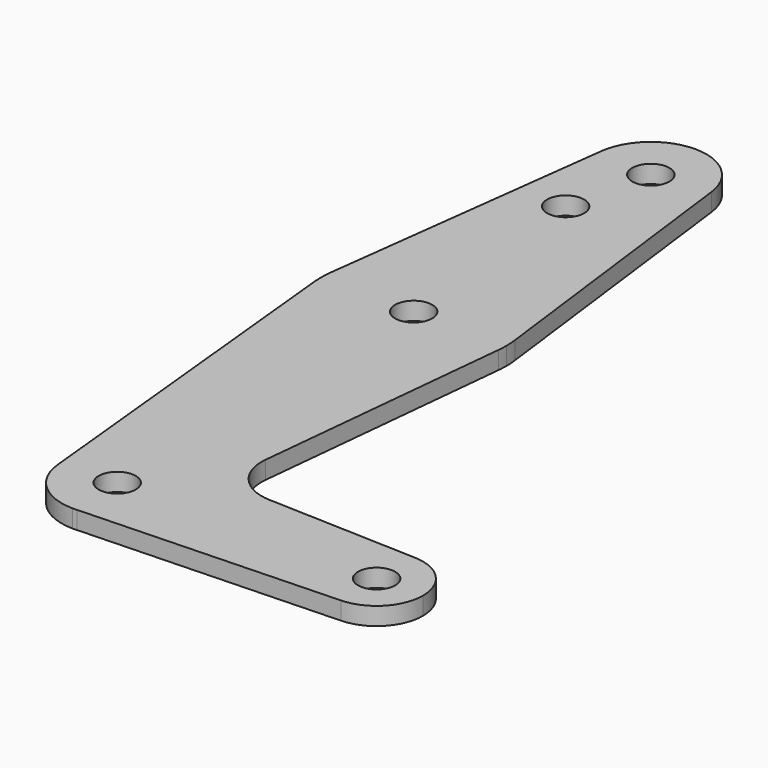
from build123d import *

# Parameters (mm, degrees)
F0_R     = 3.175
F1_DEPTH = 3.048


with BuildPart() as f1:
    # F0 (on Top) → F1 (new body)
    with BuildSketch(Plane.XY):
        with BuildLine():
            ThreePointArc((0.677344, -9.500886), (6.970557, -6.491299), (9.525, 0))
            ThreePointArc((9.525, 0), (-0.476848, 9.513056), (-9.477255, -0.9525))
            ThreePointArc((-9.477255, -0.9525), (-6.389564, -7.063929), (0, -9.525))
            Line((0, -9.525), (0.677344, -9.500886))
        make_face()
        Circle(F0_R, mode=Mode.SUBTRACT)
        with BuildLine():
            ThreePointArc((-9.477255, -0.9525), (-0.476848, 9.513056), (9.525, 0))
            ThreePointArc((9.525, 0), (6.970557, -6.491299), (0.677344, -9.500886))
            Line((0.677344, -9.500886), (44.732405, -7.932475))
            ThreePointArc((44.732405, -7.932475), (36.5125, 0.000539), (44.733482, 7.932436))
            Line((44.733482, 7.932436), (18.9676, 8.853234))
            ThreePointArc((18.9676, 8.853234), (13.2612, 11.571359), (11.341187, 17.593382))
            Line((11.341187, 17.593382), (15.795426, 61.9125))
            ThreePointArc((15.795426, 61.9125), (0, 47.625), (-15.795426, 61.9125))
            Line((-15.795426, 61.9125), (-9.477255, -0.9525))
        make_face()
        with BuildLine():
            ThreePointArc((0, -9.525), (0.338886, -9.51897), (0.677344, -9.500886))
            Line((0.677344, -9.500886), (0, -9.525))
        make_face()
        with BuildLine():
            ThreePointArc((-15.750488, 65.484375), (-15.873744, 63.699705), (-15.795426, 61.9125))
            ThreePointArc((-15.795426, 61.9125), (0, 47.625), (15.795426, 61.9125))
            ThreePointArc((15.795426, 61.9125), (15.855094, 62.705253), (15.875, 63.5))
            ThreePointArc((15.875, 63.5), (15.843841, 64.494139), (15.750488, 65.484375))
            ThreePointArc((15.750488, 65.484375), (0, 79.375), (-15.750488, 65.484375))
        make_face()
        with Locations((0, 63.5)):
            Circle(F0_R, mode=Mode.SUBTRACT)
        with BuildLine():
            ThreePointArc((44.733482, 7.932436), (36.5125, 0.000539), (44.732405, -7.932475))
            ThreePointArc((44.732405, -7.932475), (50.161633, -5.51191), (52.3875, 0))
            ThreePointArc((52.3875, 0), (50.162007, 5.511523), (44.733482, 7.932436))
        make_face()
        with Locations((44.45, 0)):
            Circle(F0_R, mode=Mode.SUBTRACT)
        with BuildLine():
            Line((-9.450293, 115.490625), (-15.750488, 65.484375))
            ThreePointArc((-15.750488, 65.484375), (0, 79.375), (15.750488, 65.484375))
            Line((15.750488, 65.484375), (9.450293, 115.490625))
            ThreePointArc((9.450293, 115.490625), (9.506305, 114.896483), (9.525, 114.3))
            ThreePointArc((9.525, 114.3), (-0.596483, 104.793695), (-9.450293, 115.490625))
        make_face()
        with Locations((-3.175, 100.0252)):
            Circle(F0_R, mode=Mode.SUBTRACT)
        with BuildLine():
            ThreePointArc((9.450293, 115.490625), (0, 123.825), (-9.450293, 115.490625))
            ThreePointArc((-9.450293, 115.490625), (-0.596483, 104.793695), (9.525, 114.3))
            ThreePointArc((9.525, 114.3), (9.506305, 114.896483), (9.450293, 115.490625))
        make_face()
        with Locations((0, 114.3)):
            Circle(F0_R, mode=Mode.SUBTRACT)
    extrude(amount=F1_DEPTH)


solid = f1.part
